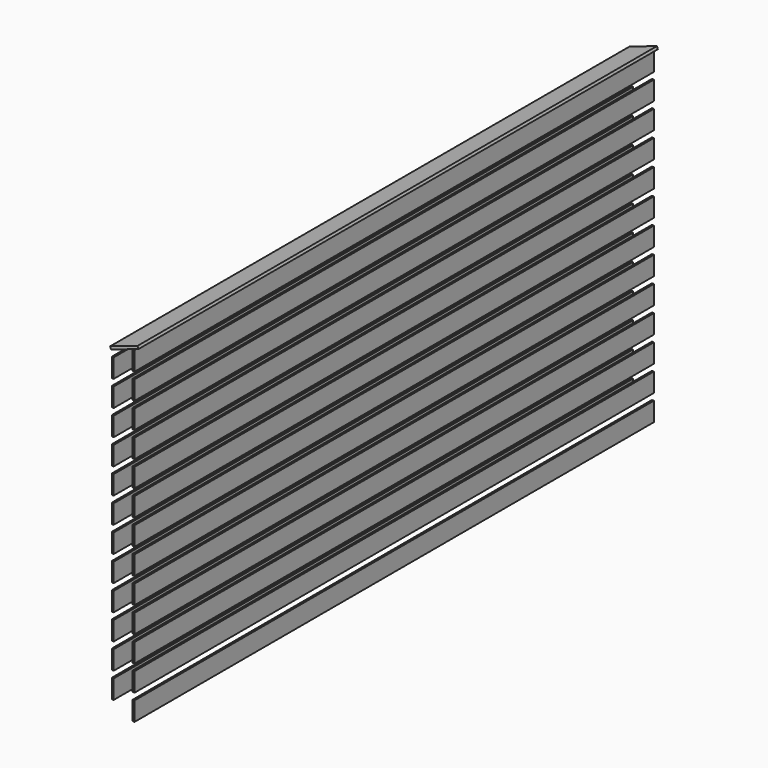
from build123d import *

# Parameters (mm, degrees)
F0_W     = 10
F0_H     = 98
F1_DEPTH = 3360


with BuildPart() as f1:
    # F0 (on Front) → F1 (new body)
    with BuildSketch(Plane.XZ):
        Polygon((-111.69109, 1657.416605), (30.339447, 1705.658979), (25.826527, 1718.945481), (-116.20401, 1670.703107), align=None)
        with Locations((-103, 1311)):
            Rectangle(F0_W, F0_H)
        with Locations((-103, 380)):
            Rectangle(F0_W, F0_H)
        with Locations((5, 581)):
            Rectangle(F0_W, F0_H)
        with Locations((-103, 912)):
            Rectangle(F0_W, F0_H)
        with Locations((5, 714)):
            Rectangle(F0_W, F0_H)
        with Locations((-103, 779)):
            Rectangle(F0_W, F0_H)
        with Locations((5, 315)):
            Rectangle(F0_W, F0_H)
        with Locations((5, 1113)):
            Rectangle(F0_W, F0_H)
        with Locations((5, 1512)):
            Rectangle(F0_W, F0_H)
        with Locations((5, 1246)):
            Rectangle(F0_W, F0_H)
        with Locations((-103, 114)):
            Rectangle(F0_W, F0_H)
        with Locations((5, 847)):
            Rectangle(F0_W, F0_H)
        with Locations((5, 980)):
            Rectangle(F0_W, F0_H)
        with Locations((-103, 1444)):
            Rectangle(F0_W, F0_H)
        with Locations((-103, 1178)):
            Rectangle(F0_W, F0_H)
        with Locations((5, 1645)):
            Rectangle(F0_W, F0_H)
        with Locations((-103, 247)):
            Rectangle(F0_W, F0_H)
        with Locations((5, 49)):
            Rectangle(F0_W, F0_H)
        with Locations((-103, 646)):
            Rectangle(F0_W, F0_H)
        with Locations((5, 1379)):
            Rectangle(F0_W, F0_H)
        with Locations((-103, 1577)):
            Rectangle(F0_W, F0_H)
        with Locations((-103, 513)):
            Rectangle(F0_W, F0_H)
        with Locations((5, 448)):
            Rectangle(F0_W, F0_H)
        with Locations((5, 182)):
            Rectangle(F0_W, F0_H)
        with Locations((-103, 1045)):
            Rectangle(F0_W, F0_H)
    extrude(amount=F1_DEPTH)


solid = f1.part
